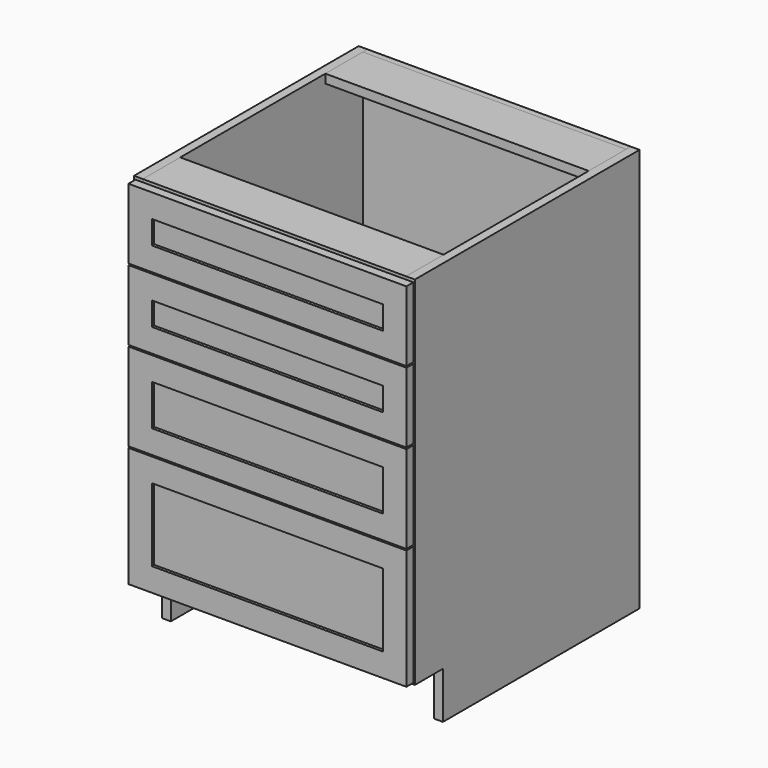
from build123d import *

# Parameters (mm, degrees)
F1_W      = 596.9
F1_H      = 19.05
F2_DEPTH  = 285.75
F1_W_2    = 101.6
F4_DEPTH  = 19.05
F6_W      = 12.7
F6_H      = 774.7
F7_DEPTH  = 571.5
F8_W      = 603.25
F8_H      = 152.4
F9_DEPTH  = 19.05
F8_H_2    = 190.5
F8_H_3    = 260.35
F10_W     = 501.65
F10_H     = 50.8
F10_H_2   = 88.9
F10_H_3   = 158.75
F11_DEPTH = 6.35


with BuildPart() as f2:
    # F1 (on Right) → F2 (new body, symmetric)
    with BuildSketch(Plane.YZ):
        with Locations((-311.15, 111.125)):
            Rectangle(F1_W, F1_H)
    extrude(amount=F2_DEPTH, both=True)


with BuildPart() as f2b:
    # F1 (on Right) → F2, piece 2 (new body, symmetric)
    with BuildSketch(Plane.YZ):
        with Locations((-558.8, 866.775)):
            Rectangle(F1_W_2, F1_H)
    extrude(amount=F2_DEPTH, both=True)


with BuildPart() as f2c:
    # F1 (on Right) → F2, piece 3 (new body, symmetric)
    with BuildSketch(Plane.YZ):
        with Locations((-63.5, 866.775)):
            Rectangle(F1_W_2, F1_H)
    extrude(amount=F2_DEPTH, both=True)


with BuildPart() as f4:
    # F3 (on face) → F4 (new body)
    with BuildSketch(Plane.YZ.offset(285.75)):
        Polygon((0, 876.3), (-609.6, 876.3), (-609.6, 101.6), (-533.4, 101.6), (-533.4, 0), (0, 0), align=None)
    extrude(amount=F4_DEPTH)


with BuildPart() as f5_1:
    # F5: instance of F4
    add(f4.part.mirror(Plane.YZ))


with BuildPart() as f7:
    # F6 (on face) → F7 (new body, through all)
    with BuildSketch(Plane.YZ.offset(-285.75)):
        with Locations((-6.35, 488.95)):
            Rectangle(F6_W, F6_H)
    extrude(amount=F7_DEPTH)


with BuildPart() as f9:
    # F8 (on face) → F9 (new body)
    with BuildSketch(Plane.XZ.offset(609.6)):
        with Locations((0, 793.75)):
            Rectangle(F8_W, F8_H)
    extrude(amount=F9_DEPTH)


with BuildPart() as f9b:
    # F8 (on face) → F9, piece 2 (new body)
    with BuildSketch(Plane.XZ.offset(609.6)):
        with Locations((0, 638.175)):
            Rectangle(F8_W, F8_H)
    extrude(amount=F9_DEPTH)


with BuildPart() as f9c:
    # F8 (on face) → F9, piece 3 (new body)
    with BuildSketch(Plane.XZ.offset(609.6)):
        with Locations((0, 463.55)):
            Rectangle(F8_W, F8_H_2)
    extrude(amount=F9_DEPTH)


with BuildPart() as f9d:
    # F8 (on face) → F9, piece 4 (new body)
    with BuildSketch(Plane.XZ.offset(609.6)):
        with Locations((0, 234.95)):
            Rectangle(F8_W, F8_H_3)
    extrude(amount=F9_DEPTH)


with BuildPart() as f11_tool:
    # F10 (on face) → F11 (new body)
    with BuildSketch(Plane.XZ.offset(628.65)):
        with Locations((0, 793.75)):
            Rectangle(F10_W, F10_H)
        with Locations((0, 638.175)):
            Rectangle(F10_W, F10_H)
        with Locations((0, 463.55)):
            Rectangle(F10_W, F10_H_2)
        with Locations((0, 234.95)):
            Rectangle(F10_W, F10_H_3)
    extrude(amount=-F11_DEPTH)


with BuildPart() as f9_1:
    add(f9.part)

    # F11: cut by f11_tool
    add(f11_tool.part, mode=Mode.SUBTRACT)


with BuildPart() as f9b_1:
    add(f9b.part)

    # F11: cut by f11_tool
    add(f11_tool.part, mode=Mode.SUBTRACT)


with BuildPart() as f9c_1:
    add(f9c.part)

    # F11: cut by f11_tool
    add(f11_tool.part, mode=Mode.SUBTRACT)


with BuildPart() as f9d_1:
    add(f9d.part)

    # F11: cut by f11_tool
    add(f11_tool.part, mode=Mode.SUBTRACT)


solid = Compound([f2.part, f2b.part, f2c.part, f4.part, f5_1.part, f7.part, f9_1.part, f9b_1.part, f9c_1.part, f9d_1.part])
